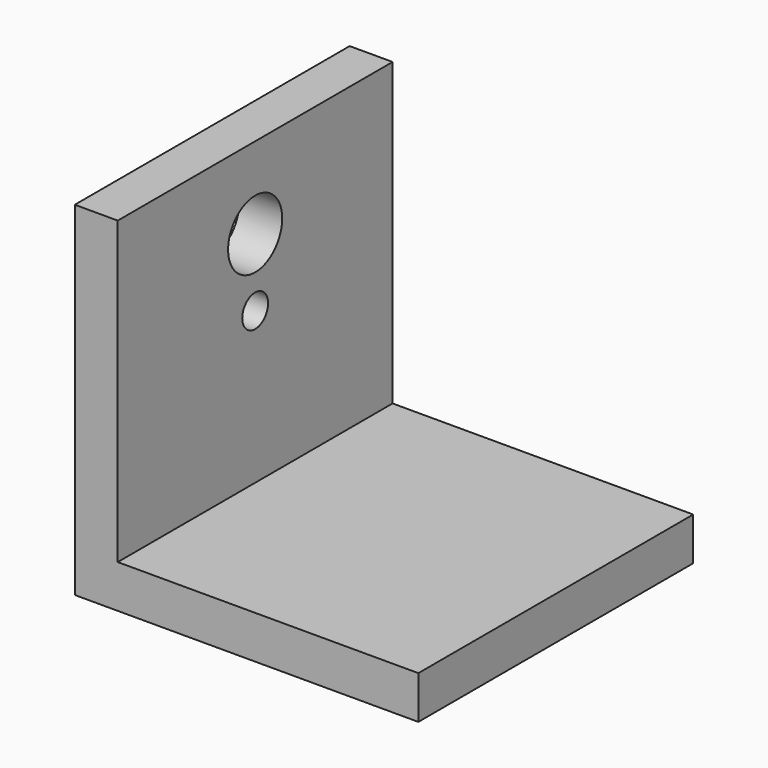
from build123d import *

# Parameters (mm, degrees)
F1_DEPTH = 50.8
F2_R     = 5
F3_DEPTH = 6.351
F5_D     = 4.776


with BuildPart() as f1:
    # F0 (on Front) → F1 (new body)
    with BuildSketch(Plane.XZ):
        Polygon((0, 50.8), (0, 0), (50.8, 0), (50.8, 6.35), (6.35, 6.35), (6.35, 50.8), align=None)
    extrude(amount=F1_DEPTH)

    # F2 (on face) → F3 (cut, through all)
    with BuildSketch(Plane.YZ.offset(6.35)):
        with Locations((-25.4, 38.738448)):
            Circle(F2_R)
    extrude(amount=-F3_DEPTH, mode=Mode.SUBTRACT)

    # F5 (through all)
    with Locations(Plane.YZ.offset(6.35)):
        with Locations((-25.4, 28.738448)):
            Hole(F5_D / 2)


solid = f1.part
